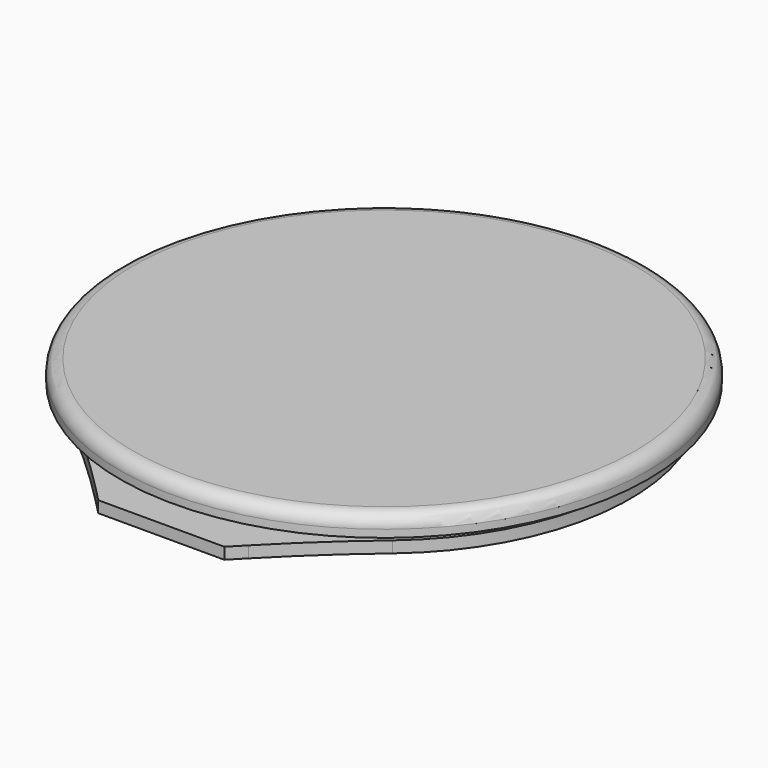
from build123d import *

# Parameters (mm, degrees)
PAD_DEPTH    = 1
SKETCH001_R  = 19.92
PAD001_DEPTH = 1
SKETCH002_R  = 23.025
PAD002_DEPTH = 0.65
SKETCH003_R  = 23.025
PAD003_DEPTH = 1.15
FILLET_R     = 1.14


with BuildPart() as part:
    # Sketch → Pad (new body)
    with BuildSketch(Plane.XY):
        with BuildLine():
            ThreePointArc((13.847311, -16.41425), (0, 21.475), (-13.847311, -16.41425))
            ThreePointArc((-6.652084, -23.112353), (-10.16787, -19.675401), (-13.847311, -16.41425))
            Line((-5.5, -24.295), (-6.652084, -23.112353))
            Line((-5.5, -24.295), (5.5, -24.295))
            Line((5.5, -24.295), (6.652084, -23.112353))
            ThreePointArc((13.847311, -16.41425), (10.16787, -19.675401), (6.652084, -23.112353))
        make_face()
    extrude(amount=PAD_DEPTH)

    # Sketch001 (on Face8 of Pad) → Pad001 (join)
    with BuildSketch(Plane.XY.offset(1)):
        Circle(SKETCH001_R)
    extrude(amount=PAD001_DEPTH)

    # Sketch002 (on Face10 of Pad001) → Pad002 (join)
    with BuildSketch(Plane.XY.offset(2)):
        Circle(SKETCH002_R)
    extrude(amount=PAD002_DEPTH)

    # Sketch003 (on Face3 of Pad002) → Pad003 (join)
    with BuildSketch(Plane.XY.offset(2.65)):
        Circle(SKETCH003_R)
    extrude(amount=PAD003_DEPTH)

    # Fillet
    fillet_edges = [part.edges().sort_by_distance(p)[0] for p in [
        (-23.025, 0, 3.8),
    ]]
    fillet(fillet_edges, radius=FILLET_R)


solid = part.part
